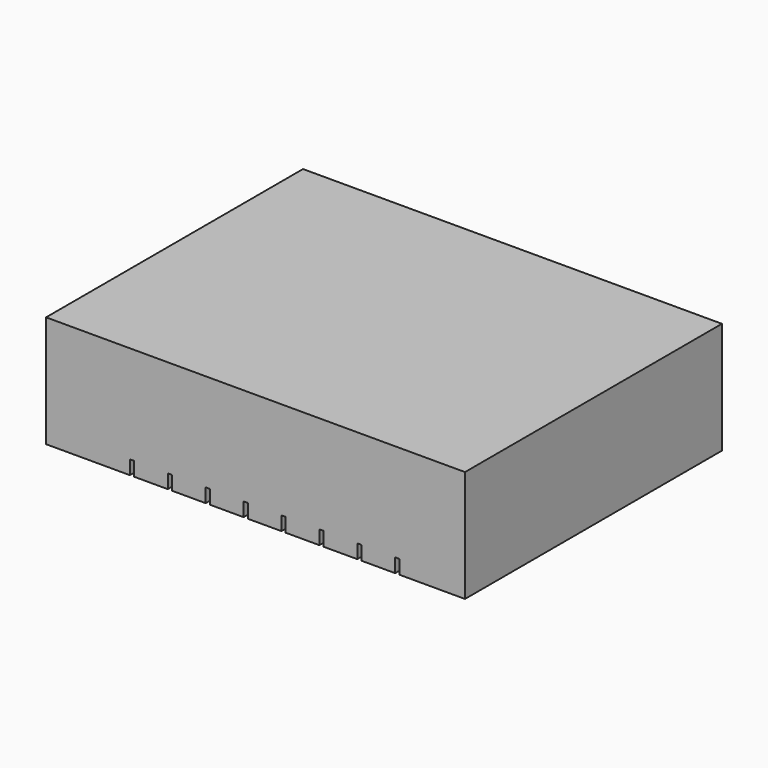
from build123d import *

# Parameters (mm, degrees)
SKETCH_W            = 30
SKETCH_H            = 23
PAD002_DEPTH        = 8
POCKET001_DEPTH     = 1.2
SKETCH002_W         = 0.3
SKETCH002_H         = 23
POCKET_DEPTH        = 1
LINEARPATTERN_COUNT = 8
LINEARPATTERN_PITCH = 2.714286


with BuildPart() as part:
    # Sketch → Pad002 (new body)
    with BuildSketch(Plane.XY):
        with Locations((15, 11.5)):
            Rectangle(SKETCH_W, SKETCH_H)
    extrude(amount=PAD002_DEPTH)

    # Sketch001 → Pocket001 (cut)
    with BuildSketch(Plane.XY):
        with BuildLine():
            ThreePointArc((17.966363, 19.115428), (14.961232, 19.899875), (11.966488, 19.07666))
            Line((11.966488, 19.07666), (4.036475, 13.531422))
            ThreePointArc((4.036475, 13.531422), (3.750333, 12.536475), (4, 11.531754))
            Line((4, 11.531754), (12.33, 5.426817))
            ThreePointArc((12.33, 5.426817), (15.374304, 4.811687), (18.318313, 5.80112))
            Line((18.318313, 5.80112), (26, 11.531754))
            ThreePointArc((26, 11.531754), (26.249667, 12.536475), (25.963525, 13.531422))
            Line((25.963525, 13.531422), (17.966363, 19.115428))
        make_face()
    extrude(amount=POCKET001_DEPTH, mode=Mode.SUBTRACT)

    # Sketch002 → Pocket (cut)
    with BuildSketch(Plane.XY):
        with Locations((6.15, 11.5)):
            Rectangle(SKETCH002_W, SKETCH002_H)
    pocket = extrude(amount=POCKET_DEPTH, mode=Mode.SUBTRACT)

    # LinearPattern: Pocket ×8
    with Locations(*[(i * LINEARPATTERN_PITCH, 0, 0) for i in range(1, LINEARPATTERN_COUNT)]):
        add(pocket, mode=Mode.SUBTRACT)


solid = part.part
